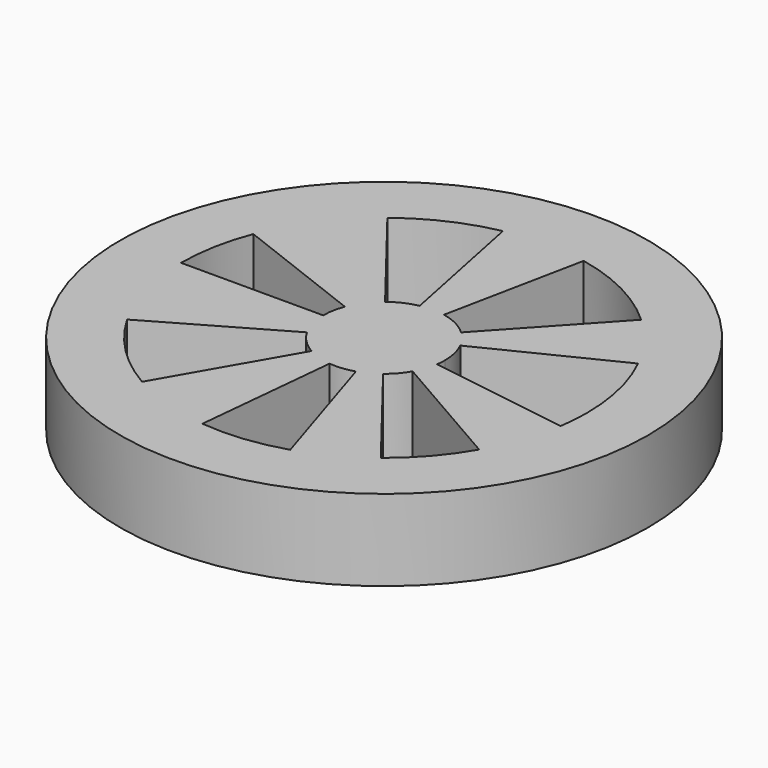
from build123d import *

# Parameters (mm, degrees)
F0_R     = 82.55
F1_DEPTH = 25.4
F2_DEPTH = 25.4


with BuildPart() as f1:
    # F0 (on Top) → F1 (new body)
    with BuildSketch(Plane.XY):
        Circle(F0_R)
        with BuildLine():
            ThreePointArc((56.928029, 28.132713), (61.835183, 14.445071), (63.5, 0))
            ThreePointArc((63.5, 0), (63.321347, -4.759933), (62.786395, -9.493083))
            ThreePointArc((62.786395, -9.493083), (59.952025, -20.928562), (55.053901, -31.643609))
            ThreePointArc((55.053901, -31.643609), (47.94106, -41.640183), (39.038578, -50.082327))
            ThreePointArc((39.038578, -50.082327), (29.536178, -56.212669), (19.097084, -60.560312))
            ThreePointArc((19.097084, -60.560312), (6.547713, -63.161519), (-6.268377, -63.189852))
            ThreePointArc((-6.268377, -63.189852), (-19.387576, -60.467941), (-31.643609, -55.053901))
            ThreePointArc((-31.643609, -55.053901), (-44.901281, -44.901281), (-55.053901, -31.643609))
            ThreePointArc((-55.053901, -31.643609), (-61.35215, -16.375703), (-63.5, 0))
            ThreePointArc((-63.5, 0), (-62.421056, 11.655977), (-59.220888, 22.915855))
            ThreePointArc((-59.220888, 22.915855), (-50.972884, 37.868391), (-39.038578, 50.082327))
            ThreePointArc((-39.038578, 50.082327), (-26.536219, 57.689506), (-12.624355, 62.232433))
            ThreePointArc((-12.624355, 62.232433), (0, 63.5), (12.624355, 62.232433))
            ThreePointArc((12.624355, 62.232433), (28.894327, 56.545273), (43.035655, 46.692423))
            ThreePointArc((43.035655, 46.692423), (50.836013, 38.051935), (56.928029, 28.132713))
        make_face(mode=Mode.SUBTRACT)
    extrude(amount=F1_DEPTH)

    # F0 (on Top) → F2 (join)
    with BuildSketch(Plane.XY):
        with BuildLine():
            Line((-11.711573, 15.024698), (-39.038578, 50.082327))
            ThreePointArc((-39.038578, 50.082327), (-50.972884, 37.868391), (-59.220888, 22.915855))
            Line((-59.220888, 22.915855), (-17.766266, 6.874757))
            ThreePointArc((-17.766266, 6.874757), (-15.291865, 11.360517), (-11.711573, 15.024698))
        make_face()
        with BuildLine():
            Line((-19.05, 0), (-63.5, 0))
            ThreePointArc((-63.5, 0), (-61.35215, -16.375703), (-55.053901, -31.643609))
            Line((-55.053901, -31.643609), (-16.51617, -9.493083))
            ThreePointArc((-16.51617, -9.493083), (-18.405645, -4.912711), (-19.05, 0))
        make_face()
        with BuildLine():
            ThreePointArc((-31.643609, -55.053901), (-19.387576, -60.467941), (-6.268377, -63.189852))
            Line((-6.268377, -63.189852), (-1.880513, -18.956956))
            ThreePointArc((-1.880513, -18.956956), (-5.816273, -18.140382), (-9.493083, -16.51617))
            Line((-9.493083, -16.51617), (-31.643609, -55.053901))
        make_face()
        with BuildLine():
            ThreePointArc((19.097084, -60.560312), (29.536178, -56.212669), (39.038578, -50.082327))
            Line((39.038578, -50.082327), (11.711573, -15.024698))
            ThreePointArc((11.711573, -15.024698), (8.860853, -16.863801), (5.729125, -18.168094))
            Line((5.729125, -18.168094), (19.097084, -60.560312))
        make_face()
        with BuildLine():
            ThreePointArc((55.053901, -31.643609), (59.952025, -20.928562), (62.786395, -9.493083))
            Line((62.786395, -9.493083), (18.835918, -2.847925))
            ThreePointArc((18.835918, -2.847925), (17.985607, -6.278569), (16.51617, -9.493083))
            Line((16.51617, -9.493083), (55.053901, -31.643609))
        make_face()
        with BuildLine():
            Line((17.078409, 8.439814), (56.928029, 28.132713))
            ThreePointArc((56.928029, 28.132713), (50.836013, 38.051935), (43.035655, 46.692423))
            Line((43.035655, 46.692423), (12.910697, 14.007727))
            ThreePointArc((12.910697, 14.007727), (15.250804, 11.415581), (17.078409, 8.439814))
        make_face()
        with BuildLine():
            Line((3.787306, 18.66973), (12.624355, 62.232433))
            ThreePointArc((12.624355, 62.232433), (0, 63.5), (-12.624355, 62.232433))
            Line((-12.624355, 62.232433), (-3.787306, 18.66973))
            ThreePointArc((-3.787306, 18.66973), (0, 19.05), (3.787306, 18.66973))
        make_face()
        with BuildLine():
            ThreePointArc((19.05, 0), (18.550555, 4.333521), (17.078409, 8.439814))
            ThreePointArc((17.078409, 8.439814), (15.250804, 11.415581), (12.910697, 14.007727))
            ThreePointArc((12.910697, 14.007727), (8.668298, 16.963582), (3.787306, 18.66973))
            ThreePointArc((3.787306, 18.66973), (0, 19.05), (-3.787306, 18.66973))
            ThreePointArc((-3.787306, 18.66973), (-7.960866, 17.306852), (-11.711573, 15.024698))
            ThreePointArc((-11.711573, 15.024698), (-15.291865, 11.360517), (-17.766266, 6.874757))
            ThreePointArc((-17.766266, 6.874757), (-18.726317, 3.496793), (-19.05, 0))
            ThreePointArc((-19.05, 0), (-18.405645, -4.912711), (-16.51617, -9.493083))
            ThreePointArc((-16.51617, -9.493083), (-13.470384, -13.470384), (-9.493083, -16.51617))
            ThreePointArc((-9.493083, -16.51617), (-5.816273, -18.140382), (-1.880513, -18.956956))
            ThreePointArc((-1.880513, -18.956956), (1.964314, -18.948456), (5.729125, -18.168094))
            ThreePointArc((5.729125, -18.168094), (8.860853, -16.863801), (11.711573, -15.024698))
            ThreePointArc((11.711573, -15.024698), (14.382318, -12.492055), (16.51617, -9.493083))
            ThreePointArc((16.51617, -9.493083), (17.985607, -6.278569), (18.835918, -2.847925))
            ThreePointArc((18.835918, -2.847925), (18.996404, -1.42798), (19.05, 0))
        make_face()
    extrude(amount=F2_DEPTH)


solid = f1.part
